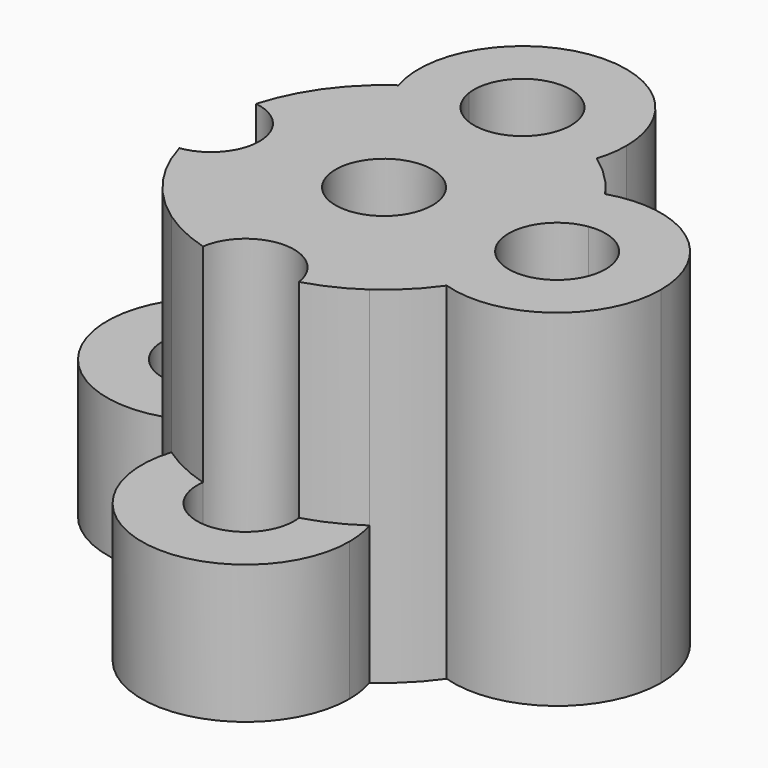
from build123d import *

# Parameters (mm, degrees)
F0_R     = 3.5
F1_DEPTH = 25
F2_DEPTH = 2
F3_DEPTH = 10
F4_DEPTH = 21


with BuildPart() as f1:
    # F0 (on Top) → F1 (new body)
    with BuildSketch(Plane.XY):
        with BuildLine():
            ThreePointArc((10.25, -7.1545440106), (5, 0), (10.25, 7.1545440106))
            ThreePointArc((10.25, 7.1545440106), (8.8388347648, 8.8388347648), (7.1545440106, 10.25))
            ThreePointArc((7.1545440106, 10.25), (0, 5), (-7.1545440106, 10.25))
            ThreePointArc((-7.1545440106, 10.25), (-8.8388347648, 8.8388347648), (-10.25, 7.1545440106))
            ThreePointArc((-10.25, 7.1545440106), (-6.4533066888, 4.4370598373), (-5, 0))
            ThreePointArc((-5, 0), (-6.4533066888, -4.4370598373), (-10.25, -7.1545440106))
            ThreePointArc((-10.25, -7.1545440106), (-8.8388347648, -8.8388347648), (-7.1545440106, -10.25))
            ThreePointArc((-7.1545440106, -10.25), (0, -5), (7.1545440106, -10.25))
            ThreePointArc((7.1545440106, -10.25), (8.8388347648, -8.8388347648), (10.25, -7.1545440106))
        make_face()
        Circle(F0_R, mode=Mode.SUBTRACT)
        with BuildLine():
            ThreePointArc((-7.1545440106, 10.25), (0, 5), (7.1545440106, 10.25))
            ThreePointArc((7.1545440106, 10.25), (5.3824617408, 11.2818041823), (3.4655302625, 12.01))
            ThreePointArc((3.4655302625, 12.01), (0, 9), (-3.4655302625, 12.01))
            ThreePointArc((-3.4655302625, 12.01), (-5.3824617408, 11.2818041823), (-7.1545440106, 10.25))
        make_face()
        with BuildLine():
            ThreePointArc((-5, 0), (-6.4533066888, 4.4370598373), (-10.25, 7.1545440106))
            ThreePointArc((-10.25, 7.1545440106), (-11.2818041823, 5.3824617408), (-12.01, 3.4655302625))
            ThreePointArc((-12.01, 3.4655302625), (-9.8575579477, 2.2951034835), (-9, 0))
            ThreePointArc((-9, 0), (-9.8575579477, -2.2951034835), (-12.01, -3.4655302625))
            ThreePointArc((-12.01, -3.4655302625), (-11.2818041823, -5.3824617408), (-10.25, -7.1545440106))
            ThreePointArc((-10.25, -7.1545440106), (-6.4533066888, -4.4370598373), (-5, 0))
        make_face()
        with BuildLine():
            ThreePointArc((3.4655302625, -12.01), (5.3824617408, -11.2818041823), (7.1545440106, -10.25))
            ThreePointArc((7.1545440106, -10.25), (0, -5), (-7.1545440106, -10.25))
            ThreePointArc((-7.1545440106, -10.25), (-5.3824617408, -11.2818041823), (-3.4655302625, -12.01))
            ThreePointArc((-3.4655302625, -12.01), (0, -9), (3.4655302625, -12.01))
        make_face()
        with BuildLine():
            ThreePointArc((12.01, -3.4655302625), (9, 0), (12.01, 3.4655302625))
            ThreePointArc((12.01, 3.4655302625), (11.2818041823, 5.3824617408), (10.25, 7.1545440106))
            ThreePointArc((10.25, 7.1545440106), (5, 0), (10.25, -7.1545440106))
            ThreePointArc((10.25, -7.1545440106), (11.2818041823, -5.3824617408), (12.01, -3.4655302625))
        make_face()
        with BuildLine():
            ThreePointArc((10.25, 7.1545440106), (11.2818041823, 5.3824617408), (12.01, 3.4655302625))
            ThreePointArc((12.01, 3.4655302625), (14.7951034835, 2.6424420523), (16, 0))
            ThreePointArc((16, 0), (14.7951034835, -2.6424420523), (12.01, -3.4655302625))
            ThreePointArc((12.01, -3.4655302625), (11.2818041823, -5.3824617408), (10.25, -7.1545440106))
            ThreePointArc((10.25, -7.1545440106), (16.9370598373, -6.0466933112), (20, 0))
            ThreePointArc((20, 0), (16.9370598373, 6.0466933112), (10.25, 7.1545440106))
        make_face()
        with BuildLine():
            ThreePointArc((3.4655302625, 12.01), (5.3824617408, 11.2818041823), (7.1545440106, 10.25))
            ThreePointArc((7.1545440106, 10.25), (7.4131329436, 11.3618172554), (7.5, 12.5))
            ThreePointArc((7.5, 12.5), (-1.1381827446, 19.9131329436), (-7.1545440106, 10.25))
            ThreePointArc((-7.1545440106, 10.25), (-5.3824617408, 11.2818041823), (-3.4655302625, 12.01))
            ThreePointArc((-3.4655302625, 12.01), (-0.2456054574, 15.9913719308), (3.5, 12.5))
            ThreePointArc((3.5, 12.5), (3.4913719308, 12.2543945426), (3.4655302625, 12.01))
        make_face()
    extrude(amount=F1_DEPTH)

    # F0 (on Top) → F2 (join)
    with BuildSketch(Plane.XY):
        with BuildLine():
            ThreePointArc((3.5, -12.5), (3.4913719308, -12.2543945426), (3.4655302625, -12.01))
            ThreePointArc((3.4655302625, -12.01), (2.7345425148, -12.1972241611), (1.9935897271, -12.34))
            ThreePointArc((1.9935897271, -12.34), (1.9983967892, -12.4199358201), (2, -12.5))
            ThreePointArc((2, -12.5), (-0.0800641799, -14.4983967892), (-1.9935897271, -12.34))
            ThreePointArc((-1.9935897271, -12.34), (-2.7345425148, -12.1972241611), (-3.4655302625, -12.01))
            ThreePointArc((-3.4655302625, -12.01), (-0.2456054574, -15.9913719308), (3.5, -12.5))
        make_face()
        with BuildLine():
            ThreePointArc((1.9935897271, -12.34), (2.7345425148, -12.1972241611), (3.4655302625, -12.01))
            ThreePointArc((3.4655302625, -12.01), (0, -9), (-3.4655302625, -12.01))
            ThreePointArc((-3.4655302625, -12.01), (-2.7345425148, -12.1972241611), (-1.9935897271, -12.34))
            ThreePointArc((-1.9935897271, -12.34), (0, -10.5), (1.9935897271, -12.34))
        make_face()
        with BuildLine():
            ThreePointArc((-12.34, 1.9935897271), (-12.1972241611, 2.7345425148), (-12.01, 3.4655302625))
            ThreePointArc((-12.01, 3.4655302625), (-16, 0), (-12.01, -3.4655302625))
            ThreePointArc((-12.01, -3.4655302625), (-12.1972241611, -2.7345425148), (-12.34, -1.9935897271))
            ThreePointArc((-12.34, -1.9935897271), (-14.5, 0), (-12.34, 1.9935897271))
        make_face()
        with BuildLine():
            ThreePointArc((-9, 0), (-9.8575579477, 2.2951034835), (-12.01, 3.4655302625))
            ThreePointArc((-12.01, 3.4655302625), (-12.1972241611, 2.7345425148), (-12.34, 1.9935897271))
            ThreePointArc((-12.34, 1.9935897271), (-11.0303061543, 1.3564659966), (-10.5, 0))
            ThreePointArc((-10.5, 0), (-11.0303061543, -1.3564659966), (-12.34, -1.9935897271))
            ThreePointArc((-12.34, -1.9935897271), (-12.1972241611, -2.7345425148), (-12.01, -3.4655302625))
            ThreePointArc((-12.01, -3.4655302625), (-9.8575579477, -2.2951034835), (-9, 0))
        make_face()
        with BuildLine():
            ThreePointArc((1.9935897271, 12.34), (2.7345425148, 12.1972241611), (3.4655302625, 12.01))
            ThreePointArc((3.4655302625, 12.01), (3.4913719308, 12.2543945426), (3.5, 12.5))
            ThreePointArc((3.5, 12.5), (-0.2456054574, 15.9913719308), (-3.4655302625, 12.01))
            ThreePointArc((-3.4655302625, 12.01), (-2.7345425148, 12.1972241611), (-1.9935897271, 12.34))
            ThreePointArc((-1.9935897271, 12.34), (-0.0800641799, 14.4983967892), (2, 12.5))
            ThreePointArc((2, 12.5), (1.9983967892, 12.4199358201), (1.9935897271, 12.34))
        make_face()
        with BuildLine():
            ThreePointArc((-3.4655302625, 12.01), (0, 9), (3.4655302625, 12.01))
            ThreePointArc((3.4655302625, 12.01), (2.7345425148, 12.1972241611), (1.9935897271, 12.34))
            ThreePointArc((1.9935897271, 12.34), (0, 10.5), (-1.9935897271, 12.34))
            ThreePointArc((-1.9935897271, 12.34), (-2.7345425148, 12.1972241611), (-3.4655302625, 12.01))
        make_face()
        with BuildLine():
            ThreePointArc((12.01, 3.4655302625), (12.1972241611, 2.7345425148), (12.34, 1.9935897271))
            ThreePointArc((12.34, 1.9935897271), (13.8564659966, 1.4696938457), (14.5, 0))
            ThreePointArc((14.5, 0), (13.8564659966, -1.4696938457), (12.34, -1.9935897271))
            ThreePointArc((12.34, -1.9935897271), (12.1972241611, -2.7345425148), (12.01, -3.4655302625))
            ThreePointArc((12.01, -3.4655302625), (14.7951034835, -2.6424420523), (16, 0))
            ThreePointArc((16, 0), (14.7951034835, 2.6424420523), (12.01, 3.4655302625))
        make_face()
        with BuildLine():
            ThreePointArc((12.34, -1.9935897271), (10.5, 0), (12.34, 1.9935897271))
            ThreePointArc((12.34, 1.9935897271), (12.1972241611, 2.7345425148), (12.01, 3.4655302625))
            ThreePointArc((12.01, 3.4655302625), (9, 0), (12.01, -3.4655302625))
            ThreePointArc((12.01, -3.4655302625), (12.1972241611, -2.7345425148), (12.34, -1.9935897271))
        make_face()
    extrude(amount=F2_DEPTH)

    # F0 (on Top) → F3 (join)
    with BuildSketch(Plane.XY):
        with BuildLine():
            ThreePointArc((-12.01, 3.4655302625), (-11.2818041823, 5.3824617408), (-10.25, 7.1545440106))
            ThreePointArc((-10.25, 7.1545440106), (-20, 0), (-10.25, -7.1545440106))
            ThreePointArc((-10.25, -7.1545440106), (-11.2818041823, -5.3824617408), (-12.01, -3.4655302625))
            ThreePointArc((-12.01, -3.4655302625), (-16, 0), (-12.01, 3.4655302625))
        make_face()
        with BuildLine():
            ThreePointArc((7.5, -12.5), (7.4131329436, -11.3618172554), (7.1545440106, -10.25))
            ThreePointArc((7.1545440106, -10.25), (5.3824617408, -11.2818041823), (3.4655302625, -12.01))
            ThreePointArc((3.4655302625, -12.01), (3.4913719308, -12.2543945426), (3.5, -12.5))
            ThreePointArc((3.5, -12.5), (-0.2456054574, -15.9913719308), (-3.4655302625, -12.01))
            ThreePointArc((-3.4655302625, -12.01), (-5.3824617408, -11.2818041823), (-7.1545440106, -10.25))
            ThreePointArc((-7.1545440106, -10.25), (-1.1381827446, -19.9131329436), (7.5, -12.5))
        make_face()
    extrude(amount=F3_DEPTH)

    # F0 (on Top) → F4 (join)
    with BuildSketch(Plane.XY):
        Circle(F0_R)
    extrude(amount=F4_DEPTH)


solid = f1.part
